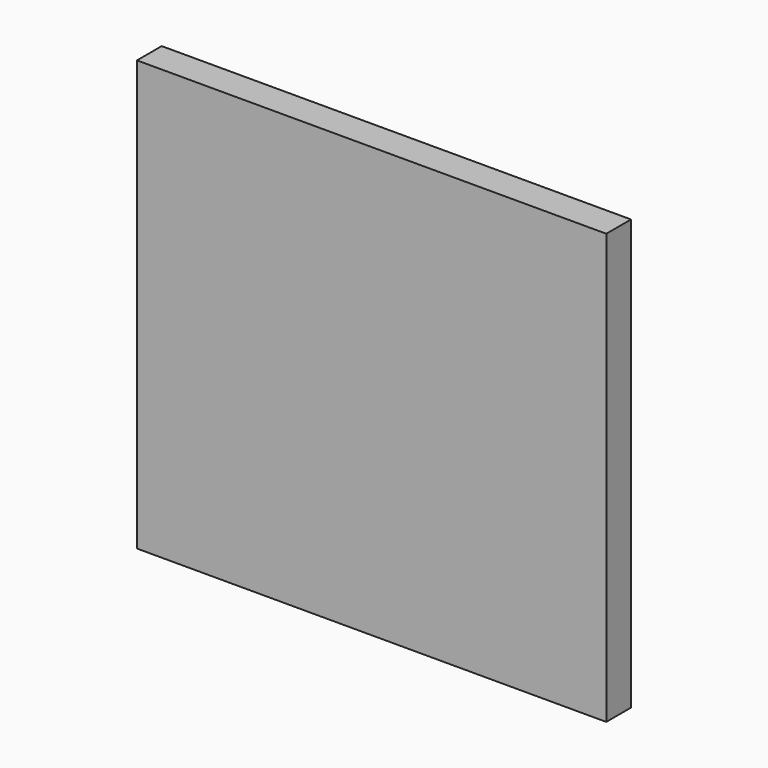
from build123d import *

# Parameters (mm, degrees)
SKETCH_W  = 273
SKETCH_H  = 250
PAD_DEPTH = 18


with BuildPart() as part:
    # Sketch → Pad (new body)
    with BuildSketch(Plane.XZ):
        with Locations((-136.5, 125)):
            Rectangle(SKETCH_W, SKETCH_H)
    extrude(amount=PAD_DEPTH)


solid = part.part
